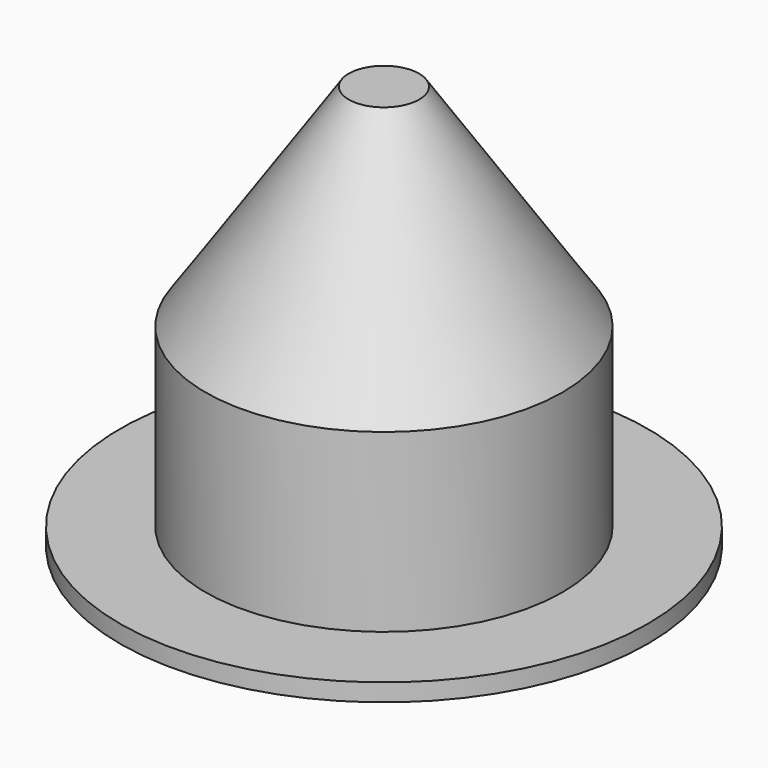
from build123d import *

# Parameters (mm, degrees)
F0_R     = 19.05
F1_DEPTH = 1.27
F2_R     = 12.8905
F3_DEPTH = 12.7


with BuildPart() as f1:
    # F0 (on Top) → F1 (new body)
    with BuildSketch(Plane.XY):
        Circle(F0_R)
    extrude(amount=F1_DEPTH)

    # F2 (on face) → F3 (join)
    with BuildSketch(Plane.XY.offset(1.27)):
        Circle(F2_R)
    extrude(amount=F3_DEPTH)

    # F4 (on Front) → F5 (revolve)
    with BuildSketch(Plane.XZ):
        Polygon((2.54, 29.21), (0, 29.21), (0, 13.97), (12.8905, 13.97), align=None)
    revolve(axis=Axis((0, 0, 1.27), (0, 0, -1)))


solid = f1.part
